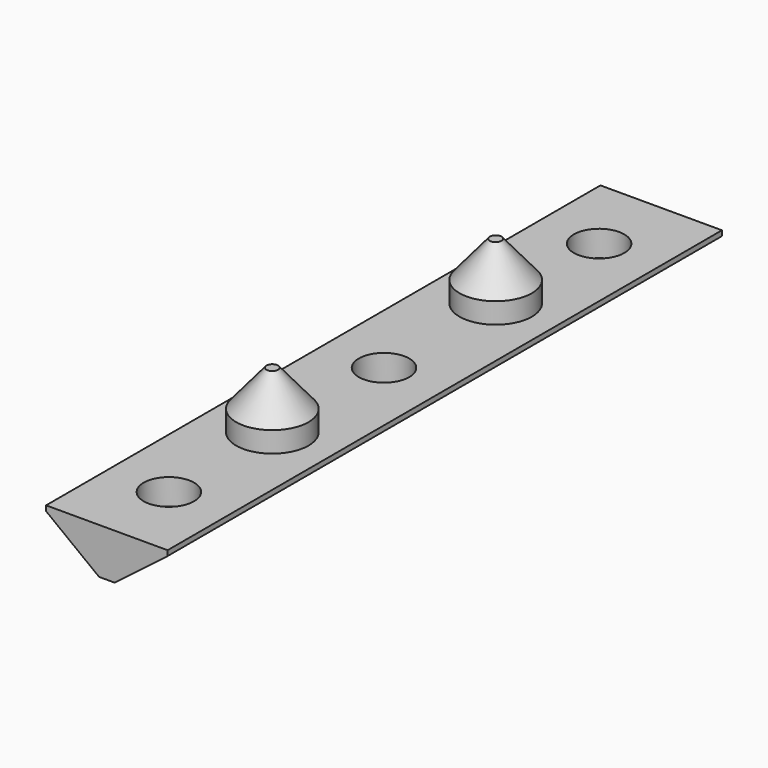
from build123d import *

# Parameters (mm, degrees)
F1_DEPTH       = 134
F3_D           = 4
F3_CBORE_D     = 9.75
F3_CBORE_DEPTH = 5
F4_R           = 7
F5_DEPTH       = 4
F6_R           = 7
F7_DEPTH       = 7
F7_TAPER       = 40


with BuildPart() as f1:
    # F0 (on Front) → F1 (new body)
    with BuildSketch(Plane.XZ):
        Polygon((23.5, 0), (0, 0), (0, -1), (10.25, -8.8510638298), (13.25, -8.8510638298), (23.5, -1), align=None)
    extrude(amount=F1_DEPTH)

    # F3 (through all)
    with Locations(Plane.XY):
        with Locations((11.75, -15), (11.75, -67), (11.75, -119)):
            CounterBoreHole(F3_D / 2, F3_CBORE_D / 2, F3_CBORE_DEPTH)

    # F4 (on face) → F5 (join)
    with BuildSketch(Plane.XY):
        with Locations((11.75, -40)):
            Circle(F4_R)
        with Locations((11.75, -94)):
            Circle(F4_R)
    extrude(amount=F5_DEPTH)

    # F6 (on face) → F7 (join)
    with BuildSketch(Plane.XY.offset(4)):
        with Locations((11.75, -40)):
            Circle(F6_R)
        with Locations((11.75, -94)):
            Circle(F6_R)
    extrude(amount=F7_DEPTH, taper=F7_TAPER)


solid = f1.part
